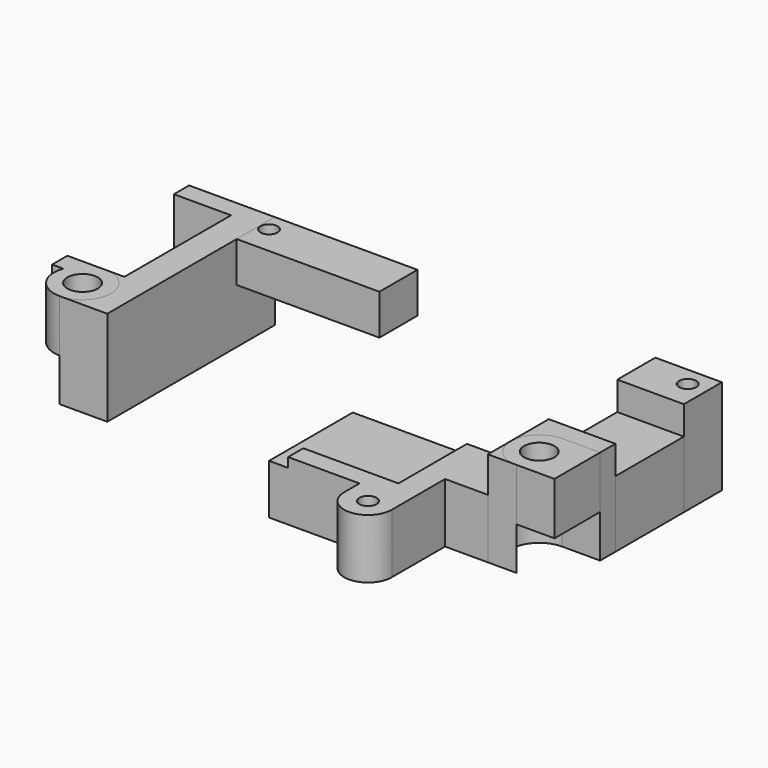
from build123d import *

# Parameters (mm, degrees)
F1_START = 5.75
F0_W     = 15
F0_H     = 5
F0_R     = 0.9
F1_DEPTH = 4.25
F2_DEPTH = 6.25
F0_W_2   = 7
F0_H_2   = 9
F3_DEPTH = 7
F4_DEPTH = 5.25
F0_W_3   = 6
F0_H_3   = 2
F5_DEPTH = 10
F0_R_2   = 1.5
F6_START = 4.5
F0_R_3   = 1.6
F6_DEPTH = 5.5


with BuildPart() as f1:
    # F0 (on Top) → F1 (new body)
    with BuildSketch(Plane.XY.offset(F1_START)):
        with Locations((-11.5, 16.5)):
            Rectangle(F0_W, F0_H)
        with Locations((-18, 17)):
            Circle(F0_R, mode=Mode.SUBTRACT)
    extrude(amount=F1_DEPTH)


with BuildPart() as f2:
    # F0 (on Top) → F2 (new body)
    with BuildSketch(Plane.XY):
        with BuildLine():
            Line((16.5, -10), (16.5, -3))
            Line((16.5, -3), (14, -3))
            Line((14, -3), (14, -6))
            Line((14, -6), (4, -6))
            Line((4, -6), (4, -8))
            Line((4, -8), (11.5, -8))
            Line((11.5, -8), (11.5, -10))
            ThreePointArc((11.5, -10), (14, -7.5), (16.5, -10))
        make_face()
        with BuildLine():
            ThreePointArc((11.5, -10), (14, -12.5), (16.5, -10))
            ThreePointArc((16.5, -10), (14, -7.5), (11.5, -10))
        make_face()
        with Locations((14, -10)):
            Circle(F0_R, mode=Mode.SUBTRACT)
        Polygon((21, -3), (21, 0), (21, 3), (14, 3), (14, -3), (16.5, -3), align=None)
    extrude(amount=F2_DEPTH)

    # F0 (on Top) → F4 (join)
    with BuildSketch(Plane.XY):
        Polygon((14, -3), (14, 3), (2, 3), (2, -3), (2, -8), (4, -8), (4, -6), (14, -6), align=None)
    extrude(amount=F4_DEPTH)


with BuildPart() as f3:
    # F0 (on Top) → F3 (new body)
    with BuildSketch(Plane.XY):
        with Locations((24.5, 9.5)):
            Rectangle(F0_W_2, F0_H_2)
    extrude(amount=F3_DEPTH)


with BuildPart() as f5:
    # F0 (on Top) → F5 (new body)
    with BuildSketch(Plane.XY):
        with Locations((-25, 18)):
            Rectangle(F0_W_3, F0_H_3)
        Polygon((-22, 17), (-22, 3), (-21, 3), (-19, 3), (-19, 14), (-19, 19), (-22, 19), align=None)
        Polygon((-21, 3), (-21, 0), (-21, -3), (-19, -3), (-19, 3), align=None)
        with BuildLine():
            Line((-22, 3), (-24, 3))
            ThreePointArc((-24, 3), (-21.8786796564, 2.1213203436), (-21, 0))
            Line((-21, 0), (-21, 3))
            Line((-21, 3), (-22, 3))
        make_face()
        with BuildLine():
            ThreePointArc((-21, 0), (-21.8786796564, -2.1213203436), (-24, -3))
            Line((-24, -3), (-21, -3))
            Line((-21, -3), (-21, 0))
        make_face()
    extrude(amount=F5_DEPTH)


with BuildPart() as f5b:
    # F0 (on Top) → F5, piece 2 (new body)
    with BuildSketch(Plane.XY):
        with Locations((24.5, 16.5)):
            Rectangle(F0_W_2, F0_H)
        with Locations((26, 17)):
            Circle(F0_R_2, mode=Mode.SUBTRACT)
        with Locations((26, 17)):
            Circle(F0_R_2)
        with Locations((26, 17)):
            Circle(F0_R, mode=Mode.SUBTRACT)
    extrude(amount=F5_DEPTH)


with BuildPart() as f5c:
    # F0 (on Top) → F5, piece 3 (new body)
    with BuildSketch(Plane.XY):
        Polygon((21, 3), (24, 3), (28, 3), (28, 5), (21, 5), align=None)
        with BuildLine():
            ThreePointArc((21, 0), (21.8786796564, 2.1213203436), (24, 3))
            Line((24, 3), (21, 3))
            Line((21, 3), (21, 0))
        make_face()
    extrude(amount=F5_DEPTH)


with BuildPart() as f5d:
    # F0 (on Top) → F5, piece 4 (new body)
    with BuildSketch(Plane.XY):
        with BuildLine():
            Line((21, -3), (24, -3))
            ThreePointArc((24, -3), (21.8786796564, -2.1213203436), (21, 0))
            Line((21, 0), (21, -3))
        make_face()
    extrude(amount=F5_DEPTH)


with BuildPart() as f6:
    # F0 (on Top) → F6 (new body)
    with BuildSketch(Plane.XY.offset(F6_START)):
        with BuildLine():
            ThreePointArc((-24, 3), (-25.7320508076, 2.4494897428), (-26.8284271247, 1))
            ThreePointArc((-26.8284271247, 1), (-26.4494897428, -1.7320508076), (-24, -3))
            ThreePointArc((-24, -3), (-21.8786796564, -2.1213203436), (-21, 0))
            ThreePointArc((-21, 0), (-21.8786796564, 2.1213203436), (-24, 3))
        make_face()
        with Locations((-24, 0)):
            Circle(F0_R_3, mode=Mode.SUBTRACT)
        with BuildLine():
            Line((-28, 1), (-26.8284271247, 1))
            ThreePointArc((-26.8284271247, 1), (-25.7320508076, 2.4494897428), (-24, 3))
            Line((-24, 3), (-28, 3))
            Line((-28, 3), (-28, 1))
        make_face()
    extrude(amount=F6_DEPTH)


with BuildPart() as f6b:
    # F0 (on Top) → F6, piece 2 (new body)
    with BuildSketch(Plane.XY.offset(F6_START)):
        with BuildLine():
            ThreePointArc((24, 3), (26.1213203436, 2.1213203436), (27, 0))
            ThreePointArc((27, 0), (26.1213203436, -2.1213203436), (24, -3))
            Line((24, -3), (28, -3))
            Line((28, -3), (28, 3))
            Line((28, 3), (24, 3))
        make_face()
        with BuildLine():
            ThreePointArc((24, -3), (26.1213203436, -2.1213203436), (27, 0))
            ThreePointArc((27, 0), (26.1213203436, 2.1213203436), (24, 3))
            ThreePointArc((24, 3), (21.8786796564, 2.1213203436), (21, 0))
            ThreePointArc((21, 0), (21.8786796564, -2.1213203436), (24, -3))
        make_face()
        with Locations((24, 0)):
            Circle(F0_R_3, mode=Mode.SUBTRACT)
    extrude(amount=F6_DEPTH)


solid = Compound([f1.part, f2.part, f3.part, f5.part, f5b.part, f5c.part, f5d.part, f6.part, f6b.part])
